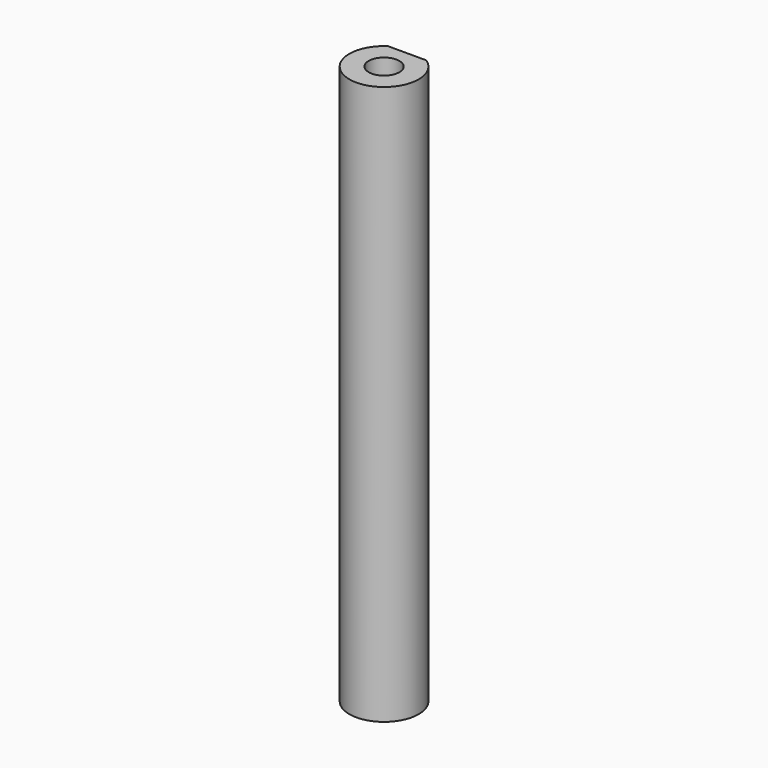
from build123d import *

# Parameters (mm, degrees)
F0_R     = 0.9
F1_DEPTH = 32.78124


with BuildPart() as f1:
    # F0 (on Top) → F1 (new body)
    with BuildSketch(Plane.XY):
        with BuildLine():
            Line((1.122602, 1.69375), (-1.122602, 1.69375))
            ThreePointArc((-1.122602, 1.69375), (0, -2.032), (1.122602, 1.69375))
        make_face()
        Circle(F0_R, mode=Mode.SUBTRACT)
    extrude(amount=F1_DEPTH)


solid = f1.part
